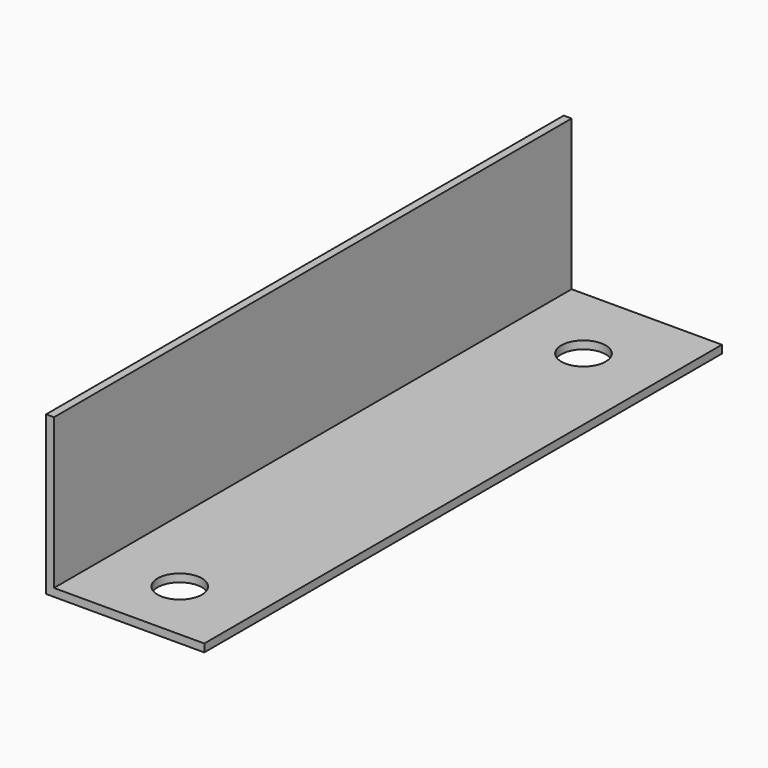
from build123d import *

# Parameters (mm, degrees)
F1_DEPTH = 409
F2_R     = 14
F3_DEPTH = 5


with BuildPart() as f1:
    # F0 (on Front) → F1 (new body)
    with BuildSketch(Plane.XZ):
        Polygon((5, 100), (0, 100), (0, 0), (100, 0), (100, 5), (5, 5), align=None)
    extrude(amount=F1_DEPTH)

    # F2 (on face) → F3 (cut, through all)
    with BuildSketch(Plane.XY.offset(5)):
        with Locations((52.5, -50)):
            Circle(F2_R)
        with Locations((52.5, -369)):
            Circle(F2_R)
    extrude(amount=-F3_DEPTH, mode=Mode.SUBTRACT)


solid = f1.part
